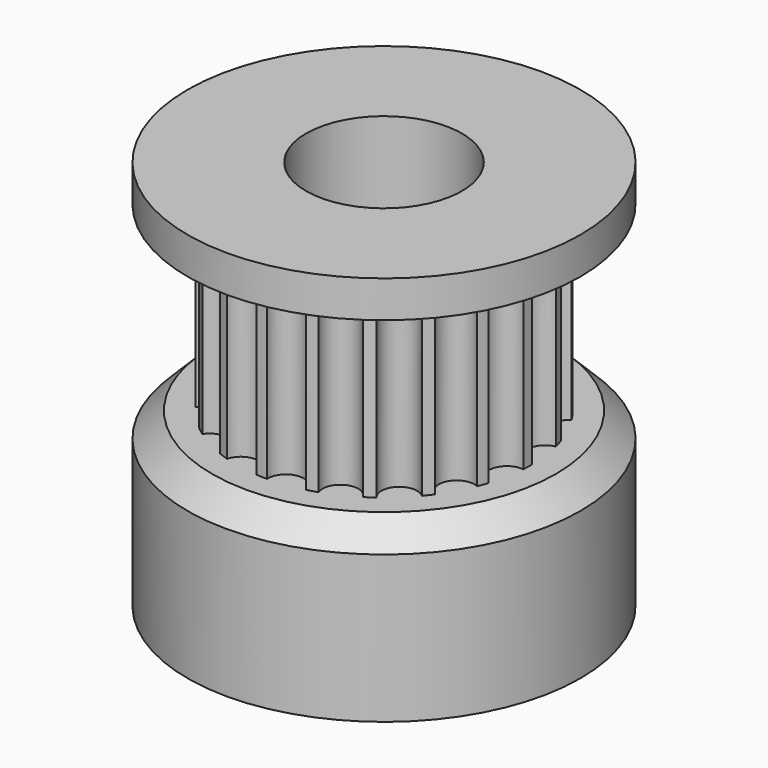
from build123d import *

# Parameters (mm, degrees)
F0_R     = 8
F1_DEPTH = 7
F2_R     = 6
F3_DEPTH = 7.4
F4_SIZE  = 1
F5_R     = 8
F6_DEPTH = 1.5
F7_R     = 0.725
F8_DEPTH = 7.4
F10_D    = 6.35


with BuildPart() as f1:
    # F0 (on Top) → F1 (new body)
    with BuildSketch(Plane.XY):
        Circle(F0_R)
    extrude(amount=F1_DEPTH)

    # F2 (on face) → F3 (join)
    with BuildSketch(Plane.XY.offset(7)):
        Circle(F2_R)
    extrude(amount=F3_DEPTH)

    # F4
    f4_edges = [f1.edges().sort_by_distance(p)[0] for p in [
        (-8, 0, 7),
    ]]
    chamfer(f4_edges, length=F4_SIZE)

    # F5 (on face) → F6 (join)
    with BuildSketch(Plane.XY.offset(14.4)):
        Circle(F5_R)
    extrude(amount=F6_DEPTH)

    # F7 (on face) → F8 (cut)
    with BuildSketch(Plane(origin=(0, 0, 14.4), x_dir=(1, 0, 0), z_dir=(0, 0, -1))):
        with Locations((-5.4243303263, 2.5644961514)):
            Circle(F7_R)
        with Locations((-5.9513175962, 0.7627705219)):
            Circle(F7_R)
        with Locations((-5.8957484345, -1.1136204009)):
            Circle(F7_R)
        with Locations((-5.2630623379, -2.8810023997)):
            Circle(F7_R)
        with Locations((-4.1151910298, -4.3663718106)):
            Circle(F7_R)
        with Locations((-2.5644961514, -5.4243303263)):
            Circle(F7_R)
        with Locations((-0.7627705219, -5.9513175962)):
            Circle(F7_R)
        with Locations((1.1136204009, -5.8957484345)):
            Circle(F7_R)
        with Locations((2.8810023997, -5.2630623379)):
            Circle(F7_R)
        with Locations((4.3663718106, -4.1151910298)):
            Circle(F7_R)
        with Locations((5.4243303263, -2.5644961514)):
            Circle(F7_R)
        with Locations((5.9513175962, -0.7627705219)):
            Circle(F7_R)
        with Locations((5.8957484345, 1.1136204009)):
            Circle(F7_R)
        with Locations((5.2630623379, 2.8810023997)):
            Circle(F7_R)
        with Locations((4.1151910298, 4.3663718106)):
            Circle(F7_R)
        with Locations((2.5644961514, 5.4243303263)):
            Circle(F7_R)
        with Locations((0.7627705219, 5.9513175962)):
            Circle(F7_R)
        with Locations((-1.1136204009, 5.8957484345)):
            Circle(F7_R)
        with Locations((-2.8810023997, 5.2630623379)):
            Circle(F7_R)
        with Locations((-4.3663718106, 4.1151910298)):
            Circle(F7_R)
    extrude(amount=F8_DEPTH, mode=Mode.SUBTRACT)

    # F10 (through all)
    with Locations(Plane.XY.offset(15.9)):
        with Locations((0, 0)):
            Hole(F10_D / 2)


solid = f1.part
